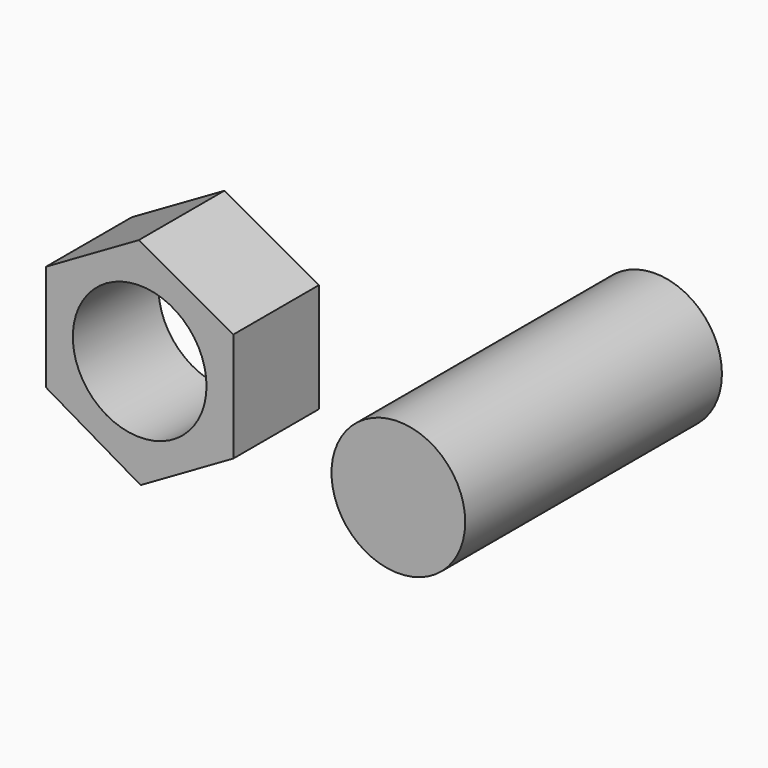
from build123d import *

# Parameters (mm, degrees)
F0_R     = 15.875
F1_DEPTH = 25.4
F2_DEPTH = 38.1


with BuildPart() as f1:
    # F0 (on Front) → F1 (new body)
    with BuildSketch(Plane.XZ):
        Polygon((-0.227955, 25.267487), (-22.225, 12.567487), (-22.225, -12.7), (0.227955, -25.794829), (22.225, -13.094829), (22.225, 12.830713), align=None)
        Circle(F0_R, mode=Mode.SUBTRACT)
    extrude(amount=F1_DEPTH)


with BuildPart() as f2:
    # F0 (on Front) → F2 (new body, symmetric)
    with BuildSketch(Plane.XZ):
        with Locations((71.586899, 0)):
            Circle(F0_R)
    extrude(amount=F2_DEPTH, both=True)


solid = Compound([f1.part, f2.part])
